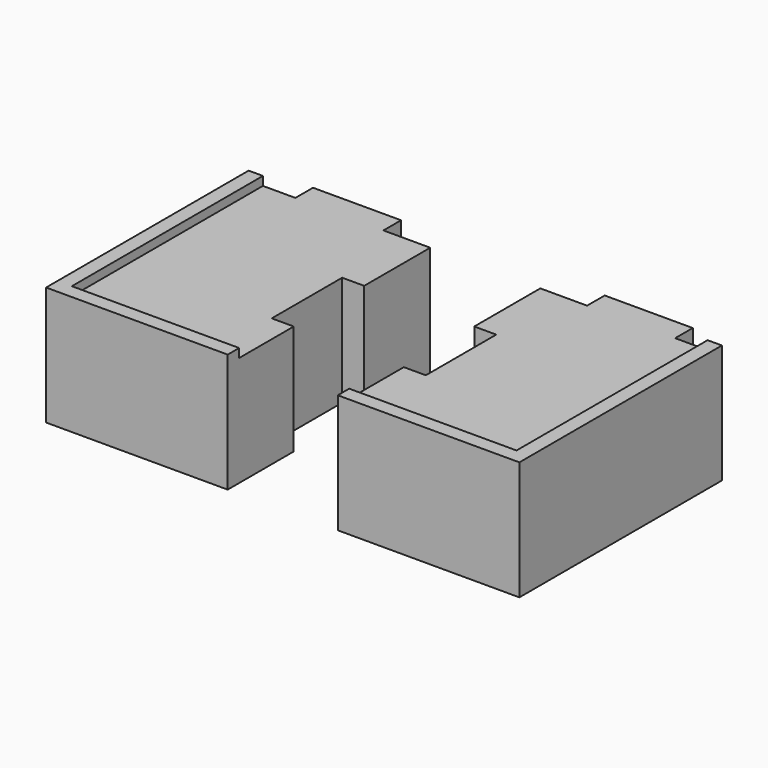
from build123d import *

# Parameters (mm, degrees)
F2_DEPTH = 100
F4_DEPTH = 3
F6_DEPTH = 8
F9_DEPTH = 100


with BuildPart() as f2:
    # F1 (on Top) → F2 (new body)
    with BuildSketch(Plane.XY):
        Polygon((0, -75), (0, 0), (-42.5, 0), (-42.5, 20), (-122.5, 20), (-122.5, 0), (-165, 0), (-165, -230), (0, -230), (0, -155), (-20, -155), (-20, -75), align=None)
        Polygon((-162.949994, -2.050006), (-120.449994, -2.050006), (-120.449994, 17.949994), (-44.550006, 17.949994), (-44.550006, -2.050006), (-2.050006, -2.050006), (-2.050006, -72.949994), (-22.050006, -72.949994), (-22.050006, -157.050006), (-2.050006, -157.050006), (-2.050006, -227.949994), (-162.949994, -227.949994), align=None, mode=Mode.SUBTRACT)
    extrude(amount=F2_DEPTH)

    # F3 (on face) → F4 (join)
    with BuildSketch(Plane.XY.offset(100)):
        Polygon((-165, 0), (-165, -230), (0, -230), (0, -155), (-20, -155), (-20, -75), (0, -75), (0, 0), (-42.5, 0), (-42.5, 20), (-122.5, 20), (-122.5, 0), align=None)
    extrude(amount=-F4_DEPTH)

    # F5 (on face) → F6 (join)
    with BuildSketch(Plane.XY.offset(100)):
        Polygon((-152, -230), (0, -230), (0, -217), (-152, -217), (-152, 0), (-165, 0), (-165, -230), (-160, -230), align=None)
    extrude(amount=F6_DEPTH)

    # F7 (on face) → F9 (join)
    with BuildSketch(Plane(origin=(0, 0, 0), x_dir=(1, 0, 0), z_dir=(0, 0, -1))):
        Polygon((-165, 230), (-165, 0), (-122.5, 0), (-122.5, -20), (-42.5, -20), (-42.5, 0), (0, 0), (0, 75), (-20, 75), (-20, 155), (0, 155), (0, 230), align=None)
        Polygon((-162, 3), (-162, 227), (-3, 227), (-3, 158), (-23, 158), (-23, 72), (-3, 72), (-3, 3), (-45.5, 3), (-45.5, -17), (-119.5, -17), (-119.5, 3), align=None, mode=Mode.SUBTRACT)
    extrude(amount=-F9_DEPTH)


with BuildPart() as f10_1:
    # F10: instance of F2
    add(f2.part.mirror(Plane.YZ.offset(50)))


solid = Compound([f2.part, f10_1.part])
